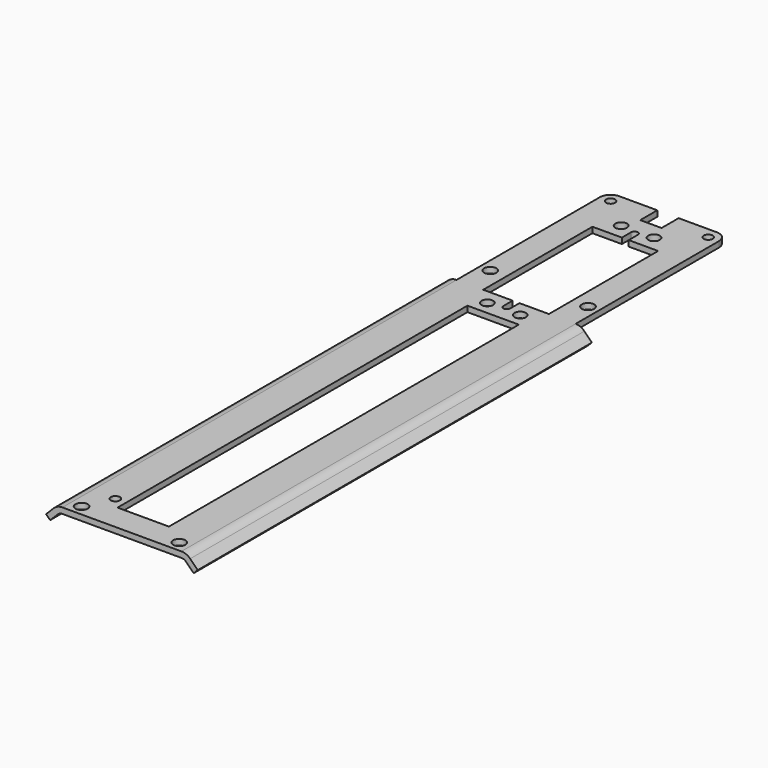
from build123d import *

# Parameters (mm, degrees)
F0_W     = 35.433
F0_H     = 203.2
F0_R     = 1.8288
F0_R_2   = 1.35255
F0_W_2   = 15.305659
F0_H_2   = 130.1990486724
F0_R_3   = 1.7272
F0_W_3   = 19.558
F0_H_3   = 40.64
F1_DEPTH = 1.70942
F3_DEPTH = 146.6772986724
F4_R     = 3.175
F5_W     = 6.35
F5_H     = 6.35
F6_DEPTH = 1.70942


with BuildPart() as f1:
    # F0 (on Top) → F1 (new body)
    with BuildSketch(Plane.XY):
        with Locations((0, -65.3972986724)):
            Rectangle(F0_W, F0_H)
        with Locations((-14.5415, -163.8222986724)):
            Circle(F0_R, mode=Mode.SUBTRACT)
        with Locations((-10.8278295, -155.8847986724)):
            Circle(F0_R_2, mode=Mode.SUBTRACT)
        with Locations((14.5415, -163.8222986724)):
            Circle(F0_R, mode=Mode.SUBTRACT)
        with Locations((0, -93.9602743362)):
            Rectangle(F0_W_2, F0_H_2, mode=Mode.SUBTRACT)
        with Locations((-4.8895, -24.892)):
            Circle(F0_R_3, mode=Mode.SUBTRACT)
        with Locations((-14.5415, -11.7291104)):
            Circle(F0_R, mode=Mode.SUBTRACT)
        with Locations((-14.5415, 33.0277013276)):
            Circle(F0_R_2, mode=Mode.SUBTRACT)
        with Locations((-4.8895, 24.892)):
            Circle(F0_R_3, mode=Mode.SUBTRACT)
        with Locations((4.8895, -24.892)):
            Circle(F0_R_3, mode=Mode.SUBTRACT)
        Rectangle(F0_W_3, F0_H_3, mode=Mode.SUBTRACT)
        with Locations((4.8895, 24.892)):
            Circle(F0_R_3, mode=Mode.SUBTRACT)
        with Locations((14.5415, -11.7291104)):
            Circle(F0_R, mode=Mode.SUBTRACT)
        with Locations((14.5415, 33.0277013276)):
            Circle(F0_R_2, mode=Mode.SUBTRACT)
    extrude(amount=F1_DEPTH)

    # F2 (on face) → F3 (join, through all)
    with BuildSketch(Plane.XZ.offset(166.9972986724)):
        with BuildLine():
            ThreePointArc((-19.1192160061, -0.5810239939), (-18.4756444321, -0.1510032162), (-17.7165, 0))
            Line((-17.7165, 0), (-17.7165, 1.70942))
            ThreePointArc((-17.7165, 1.70942), (-19.1298111451, 1.4282949343), (-20.32795848, 0.62771848))
            Line((-20.32795848, 0.62771848), (-22.5730225103, -1.6173455503))
            Line((-22.5730225103, -1.6173455503), (-21.3642800364, -2.8260880242))
            Line((-21.3642800364, -2.8260880242), (-19.1192160061, -0.5810239939))
        make_face()
        with BuildLine():
            Line((17.7165, 1.70942), (17.7165, 0))
            ThreePointArc((17.7165, 0), (18.4756444321, -0.1510032162), (19.1192160061, -0.5810239939))
            Line((19.1192160061, -0.5810239939), (21.3642800364, -2.8260880242))
            Line((21.3642800364, -2.8260880242), (22.5730225103, -1.6173455503))
            Line((22.5730225103, -1.6173455503), (20.32795848, 0.62771848))
            ThreePointArc((20.32795848, 0.62771848), (19.1298111451, 1.4282949343), (17.7165, 1.70942))
        make_face()
    extrude(amount=-F3_DEPTH)

    # F4
    f4_edges = [f1.edges().sort_by_distance(p)[0] for p in [
        (17.7165, 36.202701, 0.85471),
        (-17.7165, 36.202701, 0.85471),
    ]]
    fillet(f4_edges, radius=F4_R)

    # F5 (on face) → F6 (cut, through all)
    with BuildSketch(Plane.XY.offset(1.70942)):
        with Locations((0, 33.0277013276)):
            Rectangle(F5_W, F5_H)
        with BuildLine():
            Line((1.016, -23.749), (1.016, -20.32))
            Line((1.016, -20.32), (-1.016, -20.32))
            Line((-1.016, -20.32), (-1.016, -23.749))
            ThreePointArc((-1.016, -23.749), (0, -24.765), (1.016, -23.749))
        make_face()
        with BuildLine():
            Line((-1.016, 20.32), (1.016, 20.32))
            Line((1.016, 20.32), (1.016, 23.749))
            ThreePointArc((1.016, 23.749), (0, 24.765), (-1.016, 23.749))
            Line((-1.016, 23.749), (-1.016, 20.32))
        make_face()
    extrude(amount=-F6_DEPTH, mode=Mode.SUBTRACT)


solid = f1.part
